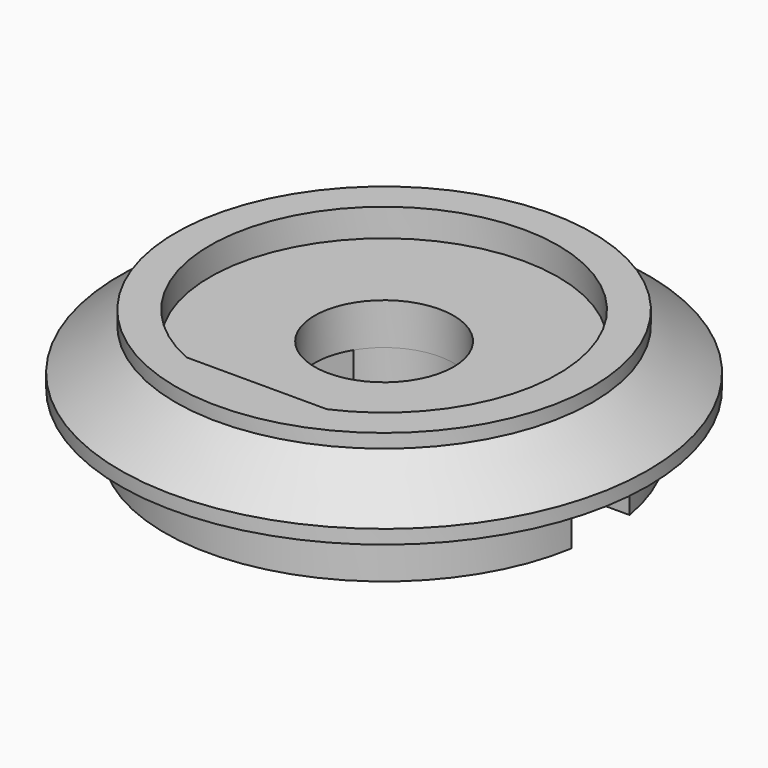
from build123d import *

# Parameters (mm, degrees)
F2_R     = 7.9
F3_DEPTH = 2
F5_DEPTH = 2
F7_DEPTH = 1


with BuildPart() as f1:
    # F0 (on Front) → F1 (revolve)
    with BuildSketch(Plane.XZ):
        Polygon((2.5, 3.1889840401), (2.5, 0.6889840401), (9.5, 0.6889840401), (9.5, 1.1889840401), (7.5, 2.6889840401), (7.5, 3.1889840401), align=None)
    revolve(axis=Axis((0, 0, 1.9389840401), (0, 0, -1)))

    # F2 (on face) → F3 (join)
    with BuildSketch(Plane(origin=(0, 0, 0.6889840401), x_dir=(1, 0, 0), z_dir=(0, 0, -1))):
        Circle(F2_R)
    extrude(amount=F3_DEPTH)

    # F4 (on face) → F5 (cut)
    with BuildSketch(Plane(origin=(0, 0, -1.3110159599), x_dir=(1, 0, 0), z_dir=(0, 0, -1))):
        with BuildLine():
            ThreePointArc((2.1354156504, -1.3), (2.4071289045, -0.675078097), (2.5, 0))
            ThreePointArc((2.5, 0), (2.4071289045, 0.675078097), (2.1354156504, 1.3))
            Line((2.1354156504, 1.3), (-2.1354156504, 1.3))
            ThreePointArc((-2.1354156504, 1.3), (-2.5, 0), (-2.1354156504, -1.3))
            Line((-2.1354156504, -1.3), (2.1354156504, -1.3))
        make_face()
        with BuildLine():
            ThreePointArc((2.1354156504, 1.3), (2.4071289045, 0.675078097), (2.5, 0))
            ThreePointArc((2.5, 0), (2.4071289045, -0.675078097), (2.1354156504, -1.3))
            Line((2.1354156504, -1.3), (8.2728397101, -1.3))
            Line((8.2728397101, -1.3), (8.2728397101, 1.3))
            Line((8.2728397101, 1.3), (2.1354156504, 1.3))
        make_face()
        with BuildLine():
            Line((-2.1354156504, 1.3), (2.1354156504, 1.3))
            ThreePointArc((2.1354156504, 1.3), (0, 2.5), (-2.1354156504, 1.3))
        make_face()
        with BuildLine():
            ThreePointArc((-2.1354156504, -1.3), (0, -2.5), (2.1354156504, -1.3))
            Line((2.1354156504, -1.3), (-2.1354156504, -1.3))
        make_face()
        with BuildLine():
            ThreePointArc((-2.1354156504, -1.3), (-2.5, 0), (-2.1354156504, 1.3))
            Line((-2.1354156504, 1.3), (-8.2728397101, 1.3))
            Line((-8.2728397101, 1.3), (-8.2728397101, -1.3))
            Line((-8.2728397101, -1.3), (-2.1354156504, -1.3))
        make_face()
    extrude(amount=-F5_DEPTH, mode=Mode.SUBTRACT)

    # F6 (on face) → F7 (cut)
    with BuildSketch(Plane.XY.offset(3.1889840401)):
        with BuildLine():
            Line((0, -5.7335105867), (2.5289812019, -5.7335105867))
            ThreePointArc((2.5289812019, -5.7335105867), (0, 6.2664894133), (-2.5289812019, -5.7335105867))
            Line((-2.5289812019, -5.7335105867), (0, -5.7335105867))
        make_face()
    extrude(amount=-F7_DEPTH, mode=Mode.SUBTRACT)


solid = f1.part
